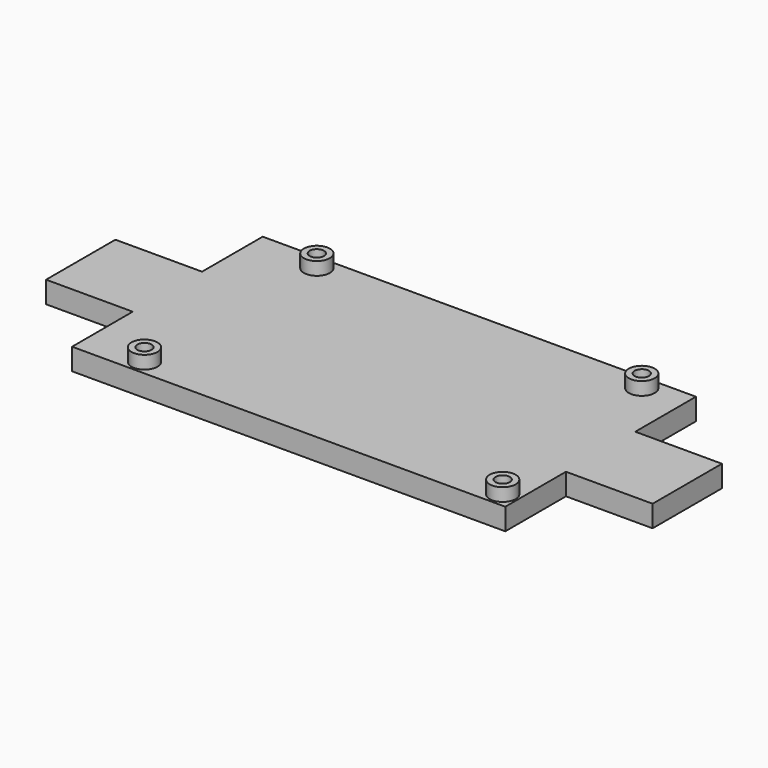
from build123d import *

# Parameters (mm, degrees)
F1_DEPTH = 5
F2_R     = 1.65
F3_DEPTH = 18.8
F4_R     = 3
F5_DEPTH = 3
F6_DEPTH = 25


with BuildPart() as f1:
    # F0 (on Top) → F1 (new body)
    with BuildSketch(Plane.XY):
        Polygon((50, 10), (50, 27.5), (-50, 27.5), (-50, 10), (-70, 10), (-70, -10), (-50, -10), (-50, -27.5), (50, -27.5), (50, -10), (70, -10), (70, 10), align=None)
    extrude(amount=F1_DEPTH)

    # F2 (on face) → F3 (cut, symmetric)
    with BuildSketch(Plane.XY.offset(5)):
        with Locations((-34.7, 24)):
            Circle(F2_R)
        with Locations((40.3, 24)):
            Circle(F2_R)
        with Locations((-36.1, -24)):
            Circle(F2_R)
        with Locations((46.6, -24)):
            Circle(F2_R)
    extrude(amount=F3_DEPTH, both=True, mode=Mode.SUBTRACT)

    # F4 (on face) → F5 (join)
    with BuildSketch(Plane.XY.offset(5)):
        with Locations((-34.7, 24)):
            Circle(F4_R)
        with Locations((40.3, 24)):
            Circle(F4_R)
        with Locations((46.6, -24)):
            Circle(F4_R)
        with Locations((-36.1, -24)):
            Circle(F4_R)
    extrude(amount=F5_DEPTH)

    # F2 (on face) → F6 (cut)
    with BuildSketch(Plane.XY.offset(5)):
        with Locations((-34.7, 24)):
            Circle(F2_R)
        with Locations((40.3, 24)):
            Circle(F2_R)
        with Locations((-36.1, -24)):
            Circle(F2_R)
        with Locations((46.6, -24)):
            Circle(F2_R)
    extrude(amount=F6_DEPTH, mode=Mode.SUBTRACT)


solid = f1.part
